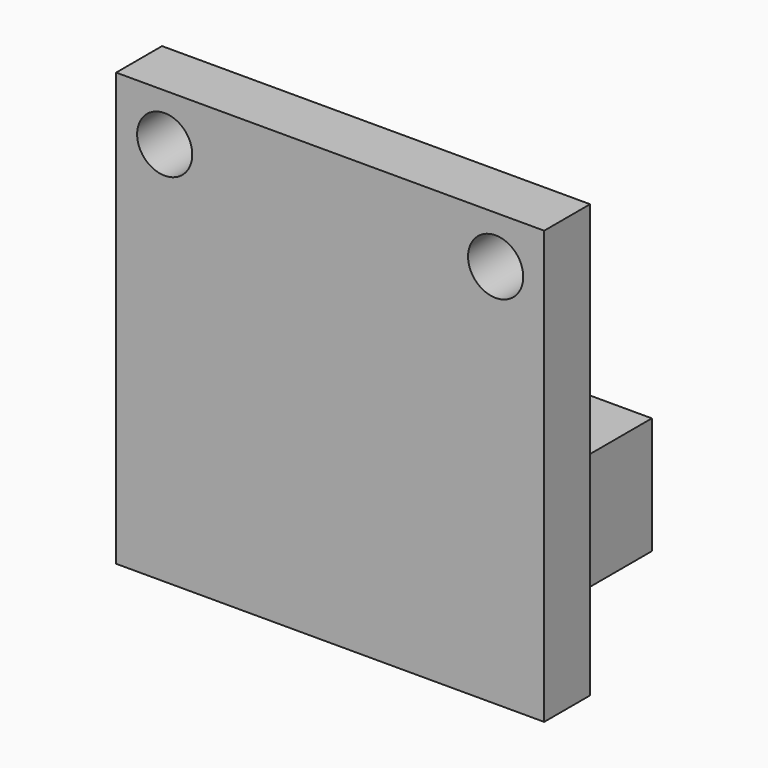
from build123d import *

# Parameters (mm, degrees)
SKETCH029_R     = 1.25
PAD017_DEPTH    = 5.3
SKETCH030_W     = 19.4
SKETCH030_H     = 2.6
PAD018_DEPTH    = 14.3
SKETCH031_R     = 1.25
POCKET009_DEPTH = 2.6


with BuildPart() as part:
    # Sketch029 → Pad017 (new body)
    with BuildSketch(Plane.XY):
        Polygon((-4.5, 0), (4.5, 0), (4.5, -10), (9.7, -10), (9.7, -12.6), (-9.7, -12.6), (-9.7, -10), (-4.5, -10), align=None)
        with Locations((0, -5)):
            Circle(SKETCH029_R, mode=Mode.SUBTRACT)
    extrude(amount=PAD017_DEPTH)

    # Sketch030 (on Face11 of Pad017) → Pad018 (join)
    with BuildSketch(Plane.XY.offset(5.3)):
        with Locations((0, -11.3)):
            Rectangle(SKETCH030_W, SKETCH030_H)
    extrude(amount=PAD018_DEPTH)

    # Sketch031 (on Face7 of Pad018) → Pocket009 (cut)
    with BuildSketch(Plane(origin=(0, -10, 0), x_dir=(-1, 0, 0), z_dir=(0, 1, 0))):
        with Locations((-7.5, 17.45)):
            Circle(SKETCH031_R)
        with Locations((7.5, 17.45)):
            Circle(SKETCH031_R)
    extrude(amount=-POCKET009_DEPTH, mode=Mode.SUBTRACT)


solid = part.part
